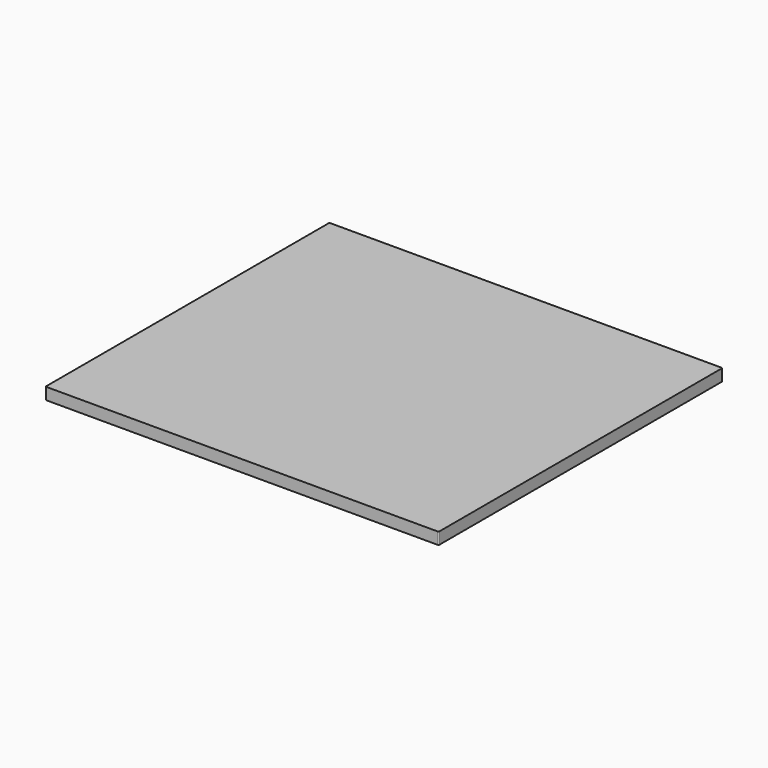
from build123d import *

# Parameters (mm, degrees)
F0_W     = 361
F0_H     = 12
F1_DEPTH = 200
F2_R     = 1


with BuildPart() as f1:
    # F0 (on Right) → F1 (new body, symmetric)
    with BuildSketch(Plane.YZ):
        with Locations((180.5, 6)):
            Rectangle(F0_W, F0_H)
    extrude(amount=F1_DEPTH, both=True)

    # F2
    f2_edges = [f1.edges().sort_by_distance(p)[0] for p in [
        (-200, 0, 6),
        (200, 0, 6),
        (200, 361, 6),
        (-200, 361, 6),
    ]]
    fillet(f2_edges, radius=F2_R)


solid = f1.part
